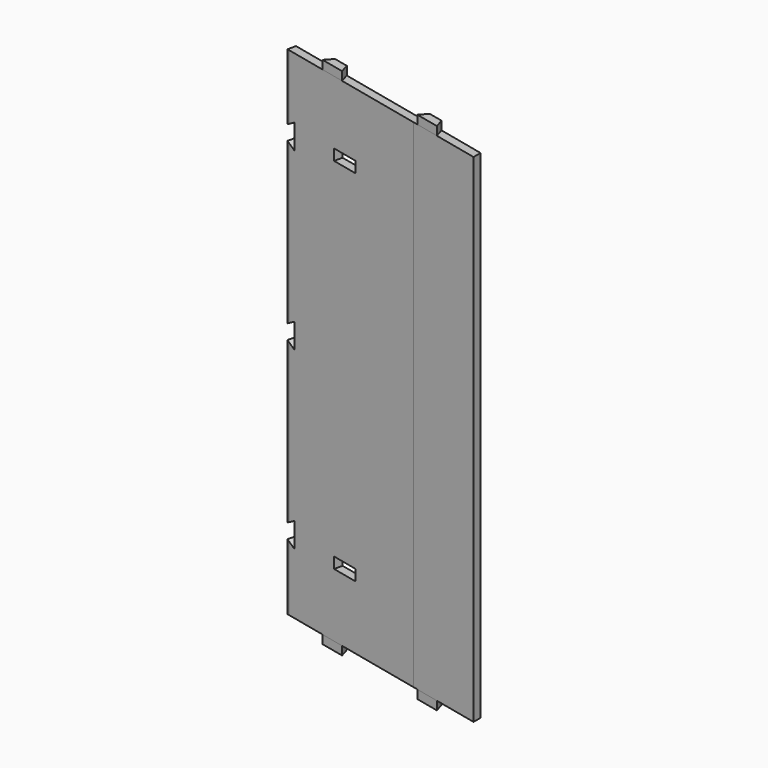
from build123d import *

# Parameters (mm, degrees)
F1_DEPTH  = 203.5
F3_DEPTH  = 3.5
F4_DEPTH  = 210.5
F6_DEPTH  = 25
F7_W      = 10
F7_H      = 4.5
F8_DEPTH  = 25
F9_DEPTH  = 0.5
F10_DEPTH = 0.5


with BuildPart() as f1:
    # F0 (on Top) → F1 (new body)
    with BuildSketch(Plane.XY):
        Polygon((18.1093649228, 1.9817664346), (80.342321908, -12.1293889498), (110.342321908, -18.9318081509), (110.342321908, -15.3429607484), (18.1093649228, 5.5706138371), (17.3353965158, 2.1572616864), align=None)
    extrude(amount=F1_DEPTH)

    # F2 (on face) → F3 (join)
    with BuildSketch(Plane.XY.offset(203.5)):
        Polygon((43.4656951855, -0.1788657578), (37.6142343556, 1.1479372257), (34.8897790053, -1.8231472639), (44.6422137217, -4.0344855696), align=None)
        Polygon((90.8374524752, -10.9202841369), (84.9859916454, -9.5934811535), (82.2615362951, -12.5645656431), (92.0139710115, -14.7759039488), align=None)
    extrude(amount=F3_DEPTH)

    # F4 (add): faces of the model
    f4_faces = [f1.faces().sort_by_distance(p)[0] for p in [
        (40.1207318834, -1.3643633477, 207),
        (87.4924891732, -12.1057817269, 207),
    ]]
    extrude(f4_faces, amount=-F4_DEPTH)

    # F5 (on face) → F6 (cut)
    with BuildSketch(Plane(origin=(2.0869058597, 9.2036632764, 0), x_dir=(-0.9752434716, 0.2211338306, 0), z_dir=(0.2211338306, 0.9752434716, 0))):
        Polygon((-16.4291887401, 170.5), (-16.4291887401, 176.5), (-19.9291887401, 178.5), (-19.9291887401, 168.5), align=None)
        Polygon((-16.4291887401, 101.75), (-16.4291887401, 104.75), (-19.9291887401, 106.75), (-19.9291887401, 101.75), (-19.9291887401, 96.75), (-16.4291887401, 98.75), align=None)
        Polygon((-16.4291887401, 27), (-16.4291887401, 33), (-19.9291887401, 35), (-19.9291887401, 25), align=None)
    extrude(amount=-F6_DEPTH, mode=Mode.SUBTRACT)

    # F7 (on face) → F8 (cut)
    with BuildSketch(Plane(origin=(1.3129374527, 5.7903111257, 0), x_dir=(0.9752434716, -0.2211338306, 0), z_dir=(-0.2211338306, -0.9752434716, 0))):
        with Locations((45.8121887401, 175.25)):
            Rectangle(F7_W, F7_H)
        with Locations((45.8121887401, 28.25)):
            Rectangle(F7_W, F7_H)
    extrude(amount=-F8_DEPTH, mode=Mode.SUBTRACT)

    # F9 (cut): faces of the model
    f9_faces = [f1.faces().sort_by_distance(p)[0] for p in [
        (41.5017422883, -1.5279684291, 175.25),
        (41.5017422883, -1.5279684291, 28.25),
    ]]
    extrude(f9_faces, amount=-F9_DEPTH, mode=Mode.SUBTRACT)

    # F10 (cut): faces of the model
    f10_faces = [f1.faces().sort_by_distance(p)[0] for p in [
        (51.2541770047, -3.7393067348, 175.25),
        (51.2541770047, -3.7393067348, 28.25),
    ]]
    extrude(f10_faces, amount=-F10_DEPTH, mode=Mode.SUBTRACT)


solid = f1.part
